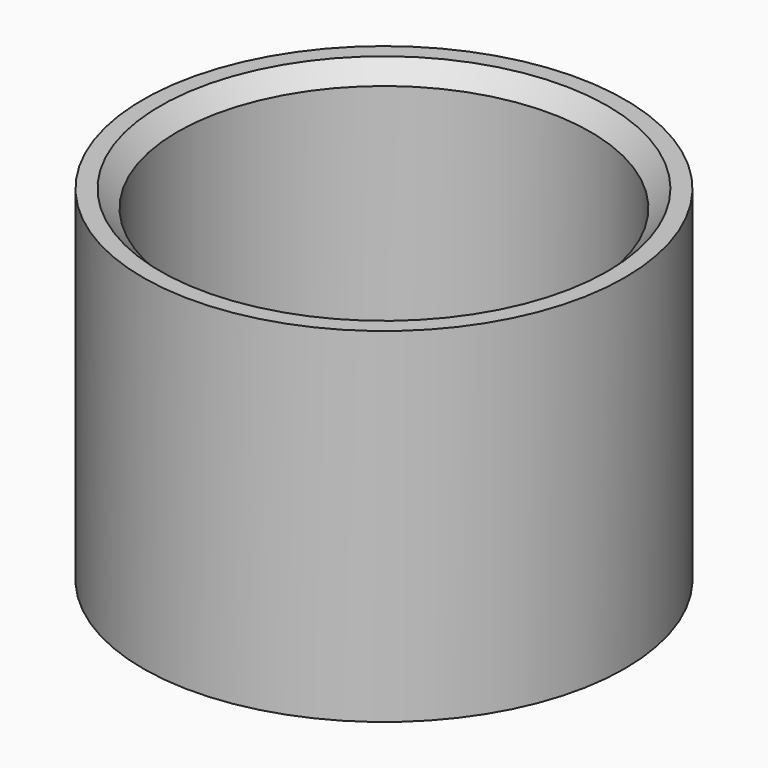
from build123d import *

# Parameters (mm, degrees)
F0_R     = 700
F0_R_2   = 600
F1_DEPTH = 500
F2_SIZE  = 50


with BuildPart() as f1:
    # F0 (on Top) → F1 (new body, symmetric)
    with BuildSketch(Plane.XY):
        Circle(F0_R)
        Circle(F0_R_2, mode=Mode.SUBTRACT)
    extrude(amount=F1_DEPTH, both=True)

    # F2
    f2_edges = [f1.edges().sort_by_distance(p)[0] for p in [
        (-600, 0, 500),
    ]]
    chamfer(f2_edges, length=F2_SIZE)


solid = f1.part
